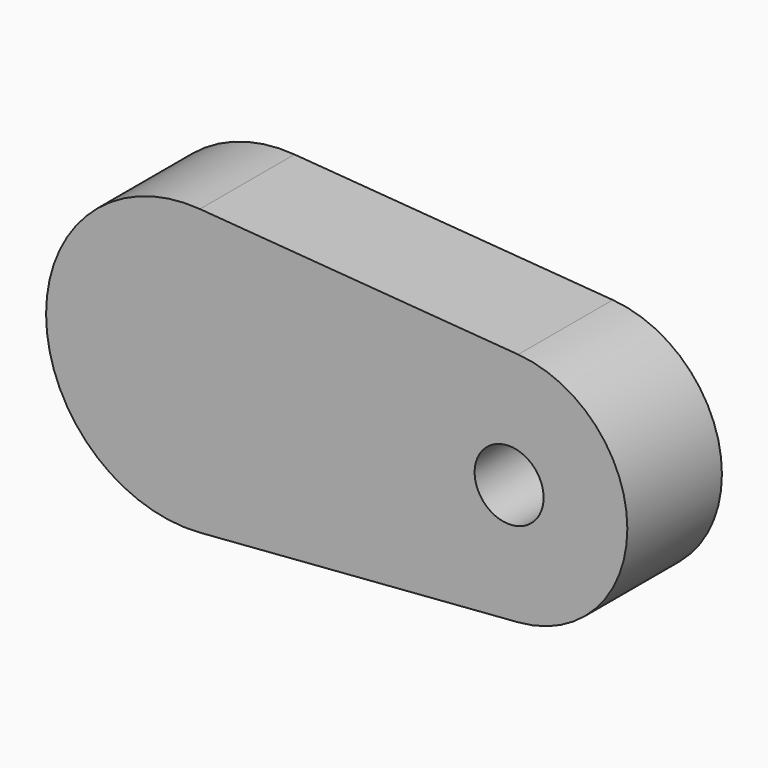
from build123d import *

# Parameters (mm, degrees)
F0_R     = 1.75
F1_DEPTH = 3


with BuildPart() as f1:
    # F0 (on Front) → F1 (new body, symmetric)
    with BuildSketch(Plane.XZ):
        with BuildLine():
            Line((-15.692308, -7.228518), (0.461538, -5.982222))
            ThreePointArc((0.461538, -5.982222), (6, 0), (0.461538, 5.982222))
            Line((0.461538, 5.982222), (-15.692308, 7.228518))
            ThreePointArc((-15.692308, 7.228518), (-23.5, 0), (-15.692308, -7.228518))
        make_face()
        Circle(F0_R, mode=Mode.SUBTRACT)
    extrude(amount=F1_DEPTH, both=True)


solid = f1.part
